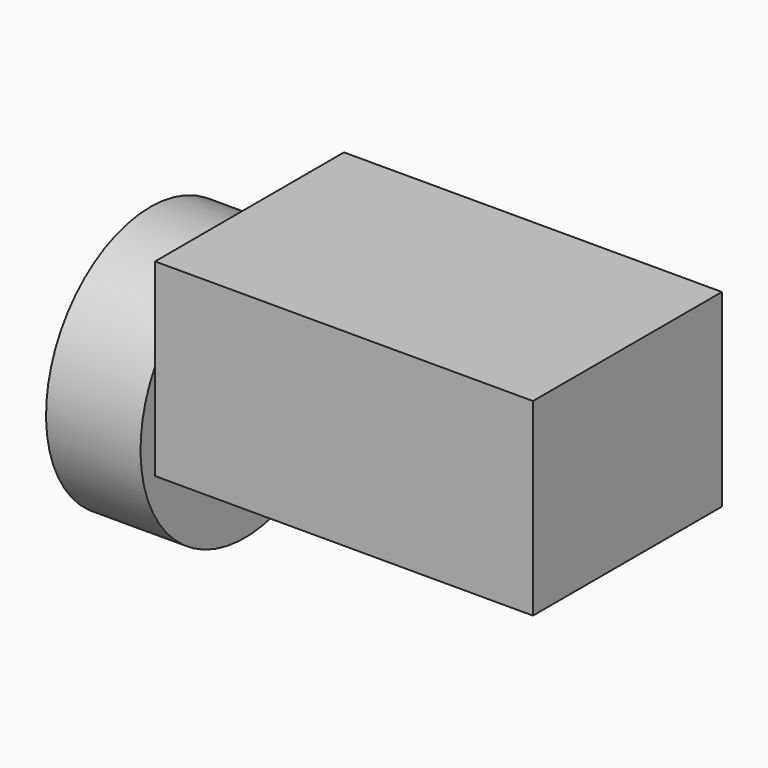
from build123d import *

# Parameters (mm, degrees)
F0_W     = 80
F0_H     = 50
F1_DEPTH = 20
F3_W     = 20
F3_H     = 10


with BuildPart() as f1:
    # F0 (on Top) → F1 (new body, symmetric)
    with BuildSketch(Plane.XY):
        Rectangle(F0_W, F0_H)
        Rectangle(F0_W, F0_H)
    extrude(amount=F1_DEPTH, both=True)


with BuildPart() as f5:
    # F3 (on Front) → F5 (revolve)
    with BuildSketch(Plane.XZ):
        with Locations((-51.002517, 8.165131)):
            Rectangle(F3_W, F3_H)
    revolve(axis=Axis((-1.774587, 0, -14.427638), (1, 0, 0)))


solid = Compound([f1.part, f5.part])
